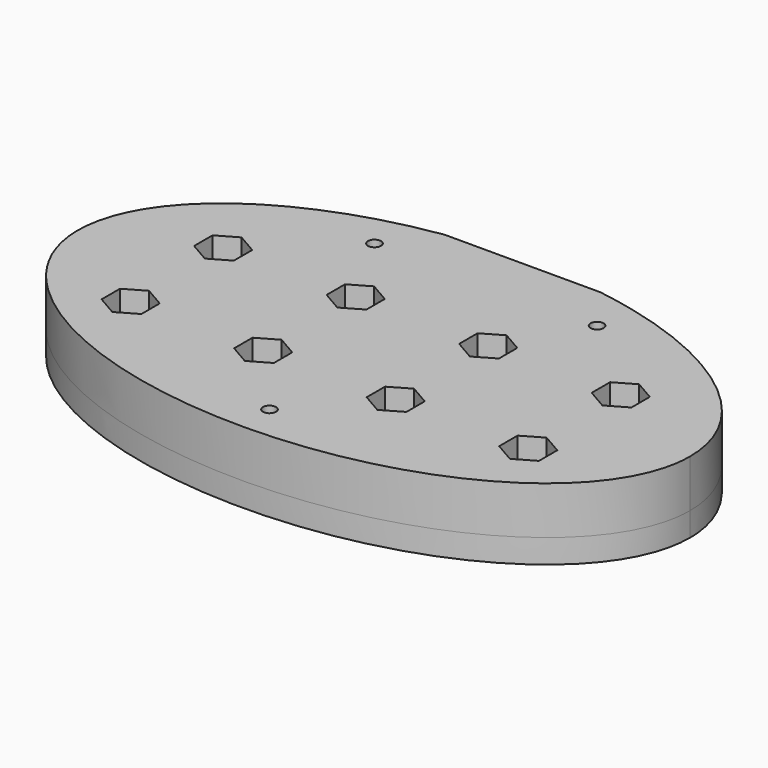
from build123d import *

# Parameters (mm, degrees)
PAD_DEPTH           = 6
POCKET_DEPTH        = 3
PAD001_DEPTH        = 3
SKETCH003_W         = 66
SKETCH003_H         = 2.77
POCKET001_DEPTH     = 3
SKETCH004_W         = 19.6
SKETCH004_H         = 1
POCKET002_DEPTH     = 9.001
SKETCH005_R         = 0.82
POCKET003_DEPTH     = 9.001
POCKET004_DEPTH     = 9.001
LINEARPATTERN_COUNT = 4
LINEARPATTERN_PITCH = 16.666667


with BuildPart() as part:
    # Sketch → Pad (new body)
    with BuildSketch(Plane.XY):
        with BuildLine():
            add(Edge.make_bspline(
                [(38.5, 0), (38.5, 38.971143), (-19.25, 19.485572), (-77, 0), (-19.25, -19.485572), (38.5, -38.971143), (38.5, 0)],
                knots=[0, 0, 0, 2.094395, 2.094395, 4.18879, 4.18879, 6.283185, 6.283185, 6.283185], degree=2, weights=[1, 0.5, 1, 0.5, 1, 0.5, 1]))
        make_face()
    extrude(amount=PAD_DEPTH)

    # Sketch001 (on Face2 of Pad) → Pocket (cut)
    with BuildSketch(Plane(origin=(0, 0, 0), x_dir=(1, 0, 0), z_dir=(0, 0, -1))):
        Polygon((9.55, -3.696801), (9.55, -21.796801), (-9.55, -21.796801), (-9.55, -3.696801), (-33, -3.696801), (-33, 6.303199), (33, 6.303199), (33, -3.696801), align=None)
    extrude(amount=-POCKET_DEPTH, mode=Mode.SUBTRACT)

    # Sketch002 (on Face2 of Pocket) → Pad001 (join)
    with BuildSketch(Plane(origin=(0, 0, 0), x_dir=(1, 0, 0), z_dir=(0, 0, -1))):
        with BuildLine():
            add(Edge.make_bspline(
                [(38.5, 0), (38.5, 38.971143), (-19.25, 19.485572), (-77, 0), (-19.25, -19.485572), (38.5, -38.971143), (38.5, 0)],
                knots=[0, 0, 0, 2.094395, 2.094395, 4.18879, 4.18879, 6.283185, 6.283185, 6.283185], degree=2, weights=[1, 0.5, 1, 0.5, 1, 0.5, 1]))
        make_face()
    extrude(amount=PAD001_DEPTH)

    # Sketch003 (on Face4 of Pad001) → Pocket001 (cut)
    with BuildSketch(Plane(origin=(0, 0, -3), x_dir=(1, 0, 0), z_dir=(0, 0, -1))):
        with Locations((0, 1.303199)):
            Rectangle(SKETCH003_W, SKETCH003_H)
    extrude(amount=-POCKET001_DEPTH, mode=Mode.SUBTRACT)

    # Sketch004 (on Face4 of Pocket001) → Pocket002 (cut, through all)
    with BuildSketch(Plane(origin=(0, 0, -3), x_dir=(1, 0, 0), z_dir=(0, 0, -1))):
        with Locations((0, -22.258868)):
            Rectangle(SKETCH004_W, SKETCH004_H)
    extrude(amount=-POCKET002_DEPTH, mode=Mode.SUBTRACT)

    # Sketch005 (on Face4 of Pocket002) → Pocket003 (cut, through all)
    with BuildSketch(Plane.XY.offset(6)):
        with Locations((-14, 16)):
            Circle(SKETCH005_R)
        with Locations((14, 16)):
            Circle(SKETCH005_R)
        with Locations((0, -18)):
            Circle(SKETCH005_R)
    extrude(amount=-POCKET003_DEPTH, mode=Mode.SUBTRACT)

    # Sketch006 (on Face7 of Pocket003) → Pocket004 (cut, through all)
    with BuildSketch(Plane(origin=(0, 0, -3), x_dir=(1, 0, 0), z_dir=(0, 0, -1))):
        Polygon((-22.5, -7.411928), (-22.5, -4.525177), (-25, -3.081801), (-27.5, -4.525177), (-27.5, -7.411928), (-25, -8.855304), align=None)
        Polygon((-22.5, 7.131574), (-22.5, 10.018326), (-25, 11.461701), (-27.5, 10.018326), (-27.5, 7.131574), (-25, 5.688199), align=None)
    pocket004 = extrude(amount=-POCKET004_DEPTH, mode=Mode.SUBTRACT)

    # LinearPattern: Pocket004 ×4
    with Locations(*[(i * LINEARPATTERN_PITCH, 0, 0) for i in range(1, LINEARPATTERN_COUNT)]):
        add(pocket004, mode=Mode.SUBTRACT)


solid = part.part
